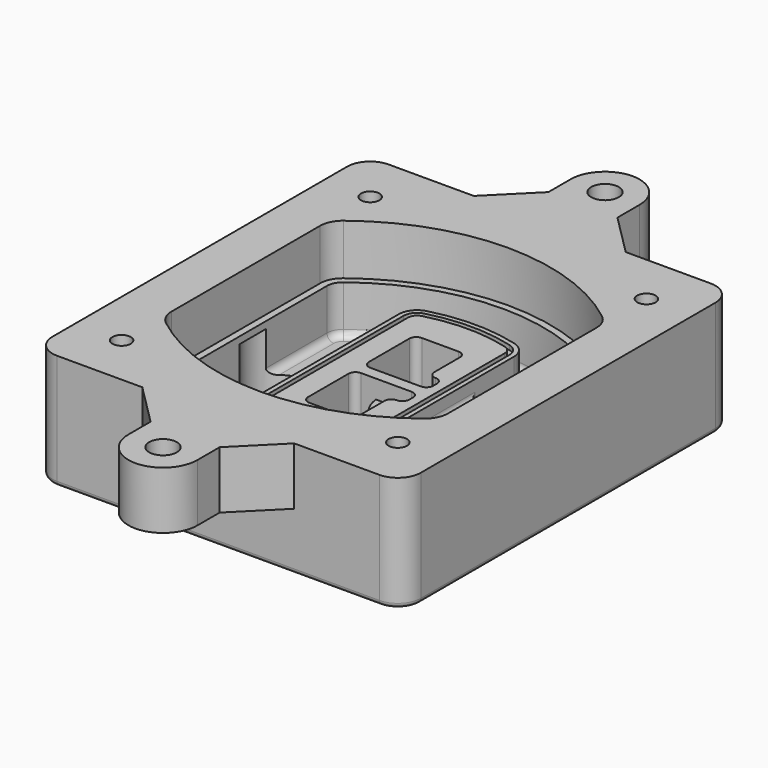
from build123d import *

# Parameters (mm, degrees)
F0_R      = 4
F1_DEPTH  = 25
F2_DEPTH  = 3
F3_DEPTH  = 18
F5_DEPTH  = 21
F6_DEPTH  = 2
F8_DEPTH  = 20
F9_DEPTH  = 16
F10_DEPTH = 25
F7_R      = 6
F7_R_2    = 4
F11_DEPTH = 6
F13_DEPTH = 9
F14_R     = 3
F15_R     = 2
F16_R     = 4
F16_R_2   = 6
F17_DEPTH = 25


with BuildPart() as f1:
    # F0 (on Top) → F1 (new body)
    with BuildSketch(Plane.XY):
        with BuildLine():
            ThreePointArc((-80, -80), (-77.0710678119, -87.0710678119), (-70, -90))
            Line((-70, -90), (70, -90))
            ThreePointArc((70, -90), (77.0710678119, -87.0710678119), (80, -80))
            Line((80, -80), (80, 80))
            ThreePointArc((80, 80), (77.0710678119, 87.0710678119), (70, 90))
            Line((70, 90), (-70, 90))
            ThreePointArc((-70, 90), (-77.0710678119, 87.0710678119), (-80, 80))
            Line((-80, 80), (-80, -80))
        make_face()
        with Locations((-60, -67.5)):
            Circle(F0_R, mode=Mode.SUBTRACT)
        with Locations((60, -67.5)):
            Circle(F0_R, mode=Mode.SUBTRACT)
        with Locations((-60, 67.5)):
            Circle(F0_R, mode=Mode.SUBTRACT)
        with BuildLine():
            ThreePointArc((-64, 40.2934422872), (-62.5820384798, 46.4328484224), (-58.6153846154, 51.3286200352))
            ThreePointArc((-58.6153846154, 51.3286200352), (0, 71.5), (58.6153846154, 51.3286200352))
            ThreePointArc((58.6153846154, 51.3286200352), (62.5820384798, 46.4328484224), (64, 40.2934422872))
            Line((64, 40.2934422872), (64, -40.2934422872))
            ThreePointArc((64, -40.2934422872), (62.5820384798, -46.4328484224), (58.6153846154, -51.3286200352))
            ThreePointArc((58.6153846154, -51.3286200352), (0, -71.5), (-58.6153846154, -51.3286200352))
            ThreePointArc((-58.6153846154, -51.3286200352), (-62.5820384798, -46.4328484224), (-64, -40.2934422872))
            Line((-64, -40.2934422872), (-64, 40.2934422872))
        make_face(mode=Mode.SUBTRACT)
        with Locations((60, 67.5)):
            Circle(F0_R, mode=Mode.SUBTRACT)
        with BuildLine():
            ThreePointArc((58.6153846154, 51.3286200352), (0, 71.5), (-58.6153846154, 51.3286200352))
            ThreePointArc((-58.6153846154, 51.3286200352), (-62.5820384798, 46.4328484224), (-64, 40.2934422872))
            Line((-64, 40.2934422872), (-64, -40.2934422872))
            ThreePointArc((-64, -40.2934422872), (-62.5820384798, -46.4328484224), (-58.6153846154, -51.3286200352))
            ThreePointArc((-58.6153846154, -51.3286200352), (0, -71.5), (58.6153846154, -51.3286200352))
            ThreePointArc((58.6153846154, -51.3286200352), (62.5820384798, -46.4328484224), (64, -40.2934422872))
            Line((64, -40.2934422872), (64, 40.2934422872))
            ThreePointArc((64, 40.2934422872), (62.5820384798, 46.4328484224), (58.6153846154, 51.3286200352))
        make_face()
        with BuildLine():
            Line((-60, -40.2934422872), (-60, 40.2934422872))
            ThreePointArc((-60, 40.2934422872), (-58.9871703427, 44.6787323838), (-56.1538461538, 48.1757121072))
            ThreePointArc((-56.1538461538, 48.1757121072), (0, 67.5), (56.1538461538, 48.1757121072))
            ThreePointArc((56.1538461538, 48.1757121072), (58.9871703427, 44.6787323838), (60, 40.2934422872))
            Line((60, 40.2934422872), (60, -40.2934422872))
            ThreePointArc((60, -40.2934422872), (58.9871703427, -44.6787323838), (56.1538461538, -48.1757121072))
            ThreePointArc((56.1538461538, -48.1757121072), (0, -67.5), (-56.1538461538, -48.1757121072))
            ThreePointArc((-56.1538461538, -48.1757121072), (-58.9871703427, -44.6787323838), (-60, -40.2934422872))
        make_face(mode=Mode.SUBTRACT)
        with BuildLine():
            ThreePointArc((-56.1538461538, 48.1757121072), (-58.9871703427, 44.6787323838), (-60, 40.2934422872))
            Line((-60, 40.2934422872), (-60, -40.2934422872))
            ThreePointArc((-60, -40.2934422872), (-58.9871703427, -44.6787323838), (-56.1538461538, -48.1757121072))
            ThreePointArc((-56.1538461538, -48.1757121072), (0, -67.5), (56.1538461538, -48.1757121072))
            ThreePointArc((56.1538461538, -48.1757121072), (58.9871703427, -44.6787323838), (60, -40.2934422872))
            Line((60, -40.2934422872), (60, 40.2934422872))
            ThreePointArc((60, 40.2934422872), (58.9871703427, 44.6787323838), (56.1538461538, 48.1757121072))
            ThreePointArc((56.1538461538, 48.1757121072), (0, 67.5), (-56.1538461538, 48.1757121072))
        make_face()
        with BuildLine():
            ThreePointArc((54.3076923077, 45.8110311612), (56.2910192399, 43.3631453548), (57, 40.2934422872))
            Line((57, 40.2934422872), (57, -40.2934422872))
            ThreePointArc((57, -40.2934422872), (56.2910192399, -43.3631453548), (54.3076923077, -45.8110311612))
            ThreePointArc((54.3076923077, -45.8110311612), (0, -64.5), (-54.3076923077, -45.8110311612))
            ThreePointArc((-54.3076923077, -45.8110311612), (-56.2910192399, -43.3631453548), (-57, -40.2934422872))
            Line((-57, -40.2934422872), (-57, 40.2934422872))
            ThreePointArc((-57, 40.2934422872), (-56.2910192399, 43.3631453548), (-54.3076923077, 45.8110311612))
            ThreePointArc((-54.3076923077, 45.8110311612), (0, 64.5), (54.3076923077, 45.8110311612))
        make_face(mode=Mode.SUBTRACT)
        with BuildLine():
            Line((57, -40.2934422872), (57, 40.2934422872))
            ThreePointArc((57, 40.2934422872), (56.2910192399, 43.3631453548), (54.3076923077, 45.8110311612))
            ThreePointArc((54.3076923077, 45.8110311612), (0, 64.5), (-54.3076923077, 45.8110311612))
            ThreePointArc((-54.3076923077, 45.8110311612), (-56.2910192399, 43.3631453548), (-57, 40.2934422872))
            Line((-57, 40.2934422872), (-57, -40.2934422872))
            ThreePointArc((-57, -40.2934422872), (-56.2910192399, -43.3631453548), (-54.3076923077, -45.8110311612))
            ThreePointArc((-54.3076923077, -45.8110311612), (0, -64.5), (54.3076923077, -45.8110311612))
            ThreePointArc((54.3076923077, -45.8110311612), (56.2910192399, -43.3631453548), (57, -40.2934422872))
        make_face()
    extrude(amount=-F1_DEPTH)

    # F0 (on Top) → F2 (join)
    with BuildSketch(Plane.XY):
        with BuildLine():
            ThreePointArc((-56.1538461538, 48.1757121072), (-58.9871703427, 44.6787323838), (-60, 40.2934422872))
            Line((-60, 40.2934422872), (-60, -40.2934422872))
            ThreePointArc((-60, -40.2934422872), (-58.9871703427, -44.6787323838), (-56.1538461538, -48.1757121072))
            ThreePointArc((-56.1538461538, -48.1757121072), (0, -67.5), (56.1538461538, -48.1757121072))
            ThreePointArc((56.1538461538, -48.1757121072), (58.9871703427, -44.6787323838), (60, -40.2934422872))
            Line((60, -40.2934422872), (60, 40.2934422872))
            ThreePointArc((60, 40.2934422872), (58.9871703427, 44.6787323838), (56.1538461538, 48.1757121072))
            ThreePointArc((56.1538461538, 48.1757121072), (0, 67.5), (-56.1538461538, 48.1757121072))
        make_face()
        with BuildLine():
            ThreePointArc((54.3076923077, 45.8110311612), (56.2910192399, 43.3631453548), (57, 40.2934422872))
            Line((57, 40.2934422872), (57, -40.2934422872))
            ThreePointArc((57, -40.2934422872), (56.2910192399, -43.3631453548), (54.3076923077, -45.8110311612))
            ThreePointArc((54.3076923077, -45.8110311612), (0, -64.5), (-54.3076923077, -45.8110311612))
            ThreePointArc((-54.3076923077, -45.8110311612), (-56.2910192399, -43.3631453548), (-57, -40.2934422872))
            Line((-57, -40.2934422872), (-57, 40.2934422872))
            ThreePointArc((-57, 40.2934422872), (-56.2910192399, 43.3631453548), (-54.3076923077, 45.8110311612))
            ThreePointArc((-54.3076923077, 45.8110311612), (0, 64.5), (54.3076923077, 45.8110311612))
        make_face(mode=Mode.SUBTRACT)
    extrude(amount=F2_DEPTH)

    # F0 (on Top) → F3 (cut)
    with BuildSketch(Plane.XY):
        with BuildLine():
            Line((57, -40.2934422872), (57, 40.2934422872))
            ThreePointArc((57, 40.2934422872), (56.2910192399, 43.3631453548), (54.3076923077, 45.8110311612))
            ThreePointArc((54.3076923077, 45.8110311612), (0, 64.5), (-54.3076923077, 45.8110311612))
            ThreePointArc((-54.3076923077, 45.8110311612), (-56.2910192399, 43.3631453548), (-57, 40.2934422872))
            Line((-57, 40.2934422872), (-57, -40.2934422872))
            ThreePointArc((-57, -40.2934422872), (-56.2910192399, -43.3631453548), (-54.3076923077, -45.8110311612))
            ThreePointArc((-54.3076923077, -45.8110311612), (0, -64.5), (54.3076923077, -45.8110311612))
            ThreePointArc((54.3076923077, -45.8110311612), (56.2910192399, -43.3631453548), (57, -40.2934422872))
        make_face()
    extrude(amount=-F3_DEPTH, mode=Mode.SUBTRACT)

    # F4 (on face) → F5 (join, through all)
    with BuildSketch(Plane.XY.offset(3)):
        with BuildLine():
            ThreePointArc((-25, -39.2465276821), (-23.3511545998, -44.1109737193), (-19.0842911877, -46.9702398883))
            ThreePointArc((-19.0842911877, -46.9702398883), (0, -49.5), (19.0842911877, -46.9702398883))
            ThreePointArc((19.0842911877, -46.9702398883), (23.3511545998, -44.1109737193), (25, -39.2465276821))
            Line((25, -39.2465276821), (25, 39.2465276821))
            ThreePointArc((25, 39.2465276821), (23.3511545998, 44.1109737193), (19.0842911877, 46.9702398883))
            ThreePointArc((19.0842911877, 46.9702398883), (0, 49.5), (-19.0842911877, 46.9702398883))
            ThreePointArc((-19.0842911877, 46.9702398883), (-23.3511545998, 44.1109737193), (-25, 39.2465276821))
            Line((-25, 39.2465276821), (-25, -39.2465276821))
        make_face()
        with BuildLine():
            ThreePointArc((18.5632183908, 45.0393118368), (21.7633659499, 42.89486221), (23, 39.2465276821))
            Line((23, 39.2465276821), (23, -39.2465276821))
            ThreePointArc((23, -39.2465276821), (21.7633659499, -42.89486221), (18.5632183908, -45.0393118368))
            ThreePointArc((18.5632183908, -45.0393118368), (0, -47.5), (-18.5632183908, -45.0393118368))
            ThreePointArc((-18.5632183908, -45.0393118368), (-21.7633659499, -42.89486221), (-23, -39.2465276821))
            Line((-23, -39.2465276821), (-23, 39.2465276821))
            ThreePointArc((-23, 39.2465276821), (-21.7633659499, 42.89486221), (-18.5632183908, 45.0393118368))
            ThreePointArc((-18.5632183908, 45.0393118368), (0, 47.5), (18.5632183908, 45.0393118368))
        make_face(mode=Mode.SUBTRACT)
        with BuildLine():
            Line((23, -39.2465276821), (23, 39.2465276821))
            ThreePointArc((23, 39.2465276821), (21.7633659499, 42.89486221), (18.5632183908, 45.0393118368))
            ThreePointArc((18.5632183908, 45.0393118368), (0, 47.5), (-18.5632183908, 45.0393118368))
            ThreePointArc((-18.5632183908, 45.0393118368), (-21.7633659499, 42.89486221), (-23, 39.2465276821))
            Line((-23, 39.2465276821), (-23, -39.2465276821))
            ThreePointArc((-23, -39.2465276821), (-21.7633659499, -42.89486221), (-18.5632183908, -45.0393118368))
            ThreePointArc((-18.5632183908, -45.0393118368), (0, -47.5), (18.5632183908, -45.0393118368))
            ThreePointArc((18.5632183908, -45.0393118368), (21.7633659499, -42.89486221), (23, -39.2465276821))
        make_face()
        with BuildLine():
            ThreePointArc((18.0421455939, 43.1083837852), (20.1755772999, 41.6787507007), (21, 39.2465276821))
            Line((21, 39.2465276821), (21, -39.2465276821))
            ThreePointArc((21, -39.2465276821), (20.1755772999, -41.6787507007), (18.0421455939, -43.1083837852))
            ThreePointArc((18.0421455939, -43.1083837852), (0, -45.5), (-18.0421455939, -43.1083837852))
            ThreePointArc((-18.0421455939, -43.1083837852), (-20.1755772999, -41.6787507007), (-21, -39.2465276821))
            Line((-21, -39.2465276821), (-21, 39.2465276821))
            ThreePointArc((-21, 39.2465276821), (-20.1755772999, 41.6787507007), (-18.0421455939, 43.1083837852))
            ThreePointArc((-18.0421455939, 43.1083837852), (0, 45.5), (18.0421455939, 43.1083837852))
        make_face(mode=Mode.SUBTRACT)
        with BuildLine():
            Line((21, -39.2465276821), (21, 39.2465276821))
            ThreePointArc((21, 39.2465276821), (20.1755772999, 41.6787507007), (18.0421455939, 43.1083837852))
            ThreePointArc((18.0421455939, 43.1083837852), (0, 45.5), (-18.0421455939, 43.1083837852))
            ThreePointArc((-18.0421455939, 43.1083837852), (-20.1755772999, 41.6787507007), (-21, 39.2465276821))
            Line((-21, 39.2465276821), (-21, -39.2465276821))
            ThreePointArc((-21, -39.2465276821), (-20.1755772999, -41.6787507007), (-18.0421455939, -43.1083837852))
            ThreePointArc((-18.0421455939, -43.1083837852), (0, -45.5), (18.0421455939, -43.1083837852))
            ThreePointArc((18.0421455939, -43.1083837852), (20.1755772999, -41.6787507007), (21, -39.2465276821))
        make_face()
        with BuildLine():
            Line((-8, -2.5), (14, -2.5))
            ThreePointArc((14, -2.5), (16.1213203436, -3.3786796564), (17, -5.5))
            Line((17, -5.5), (17, -7.5))
            ThreePointArc((17, -7.5), (16.1213203436, -9.6213203436), (14, -10.5))
            ThreePointArc((14, -10.5), (11.8786796564, -11.3786796564), (11, -13.5))
            Line((11, -13.5), (11, -27.5))
            ThreePointArc((11, -27.5), (10.1213203436, -29.6213203436), (8, -30.5))
            Line((8, -30.5), (-8, -30.5))
            ThreePointArc((-8, -30.5), (-10.1213203436, -29.6213203436), (-11, -27.5))
            Line((-11, -27.5), (-11, -5.5))
            ThreePointArc((-11, -5.5), (-10.1213203436, -3.3786796564), (-8, -2.5))
        make_face(mode=Mode.SUBTRACT)
        with BuildLine():
            ThreePointArc((-8, 2.5), (-10.1213203436, 3.3786796564), (-11, 5.5))
            Line((-11, 5.5), (-11, 27.5))
            ThreePointArc((-11, 27.5), (-10.1213203436, 29.6213203436), (-8, 30.5))
            Line((-8, 30.5), (8, 30.5))
            ThreePointArc((8, 30.5), (10.1213203436, 29.6213203436), (11, 27.5))
            Line((11, 27.5), (11, 13.5))
            ThreePointArc((11, 13.5), (11.8786796564, 11.3786796564), (14, 10.5))
            ThreePointArc((14, 10.5), (16.1213203436, 9.6213203436), (17, 7.5))
            Line((17, 7.5), (17, 5.5))
            ThreePointArc((17, 5.5), (16.1213203436, 3.3786796564), (14, 2.5))
            Line((14, 2.5), (-8, 2.5))
        make_face(mode=Mode.SUBTRACT)
    extrude(amount=-F5_DEPTH)

    # F4 (on face) → F6 (cut)
    with BuildSketch(Plane.XY.offset(3)):
        with BuildLine():
            Line((23, -39.2465276821), (23, 39.2465276821))
            ThreePointArc((23, 39.2465276821), (21.7633659499, 42.89486221), (18.5632183908, 45.0393118368))
            ThreePointArc((18.5632183908, 45.0393118368), (0, 47.5), (-18.5632183908, 45.0393118368))
            ThreePointArc((-18.5632183908, 45.0393118368), (-21.7633659499, 42.89486221), (-23, 39.2465276821))
            Line((-23, 39.2465276821), (-23, -39.2465276821))
            ThreePointArc((-23, -39.2465276821), (-21.7633659499, -42.89486221), (-18.5632183908, -45.0393118368))
            ThreePointArc((-18.5632183908, -45.0393118368), (0, -47.5), (18.5632183908, -45.0393118368))
            ThreePointArc((18.5632183908, -45.0393118368), (21.7633659499, -42.89486221), (23, -39.2465276821))
        make_face()
        with BuildLine():
            ThreePointArc((18.0421455939, 43.1083837852), (20.1755772999, 41.6787507007), (21, 39.2465276821))
            Line((21, 39.2465276821), (21, -39.2465276821))
            ThreePointArc((21, -39.2465276821), (20.1755772999, -41.6787507007), (18.0421455939, -43.1083837852))
            ThreePointArc((18.0421455939, -43.1083837852), (0, -45.5), (-18.0421455939, -43.1083837852))
            ThreePointArc((-18.0421455939, -43.1083837852), (-20.1755772999, -41.6787507007), (-21, -39.2465276821))
            Line((-21, -39.2465276821), (-21, 39.2465276821))
            ThreePointArc((-21, 39.2465276821), (-20.1755772999, 41.6787507007), (-18.0421455939, 43.1083837852))
            ThreePointArc((-18.0421455939, 43.1083837852), (0, 45.5), (18.0421455939, 43.1083837852))
        make_face(mode=Mode.SUBTRACT)
    extrude(amount=-F6_DEPTH, mode=Mode.SUBTRACT)

    # F7 (on face) → F8 (join)
    with BuildSketch(Plane(origin=(0, 0, -25), x_dir=(1, 0, 0), z_dir=(0, 0, -1))):
        with BuildLine():
            ThreePointArc((3.28842436, 0), (16.7567035675, 13.4682792075), (30.224982775, 0))
            Line((30.224982775, 0), (35.224982775, 0))
            ThreePointArc((35.224982775, 0), (16.7567035675, 18.4682792075), (-1.71157564, 0))
            Line((-1.71157564, 0), (3.28842436, 0))
        make_face()
        with BuildLine():
            Line((3.28842436, 0), (30.224982775, 0))
            ThreePointArc((30.224982775, 0), (16.7567035675, 13.4682792075), (3.28842436, 0))
        make_face()
        with BuildLine():
            ThreePointArc((3.28842436, 0), (16.7567035675, -13.4682792075), (30.224982775, 0))
            Line((30.224982775, 0), (3.28842436, 0))
        make_face()
        with BuildLine():
            Line((35.224982775, 0), (30.224982775, 0))
            ThreePointArc((30.224982775, 0), (16.7567035675, -13.4682792075), (3.28842436, 0))
            Line((3.28842436, 0), (-1.71157564, 0))
            ThreePointArc((-1.71157564, 0), (16.7567035675, -18.4682792075), (35.224982775, 0))
        make_face()
    extrude(amount=-F8_DEPTH)

    # F7 (on face) → F9 (cut)
    with BuildSketch(Plane(origin=(0, 0, -25), x_dir=(1, 0, 0), z_dir=(0, 0, -1))):
        with BuildLine():
            Line((3.28842436, 0), (30.224982775, 0))
            ThreePointArc((30.224982775, 0), (16.7567035675, 13.4682792075), (3.28842436, 0))
        make_face()
        with BuildLine():
            ThreePointArc((3.28842436, 0), (16.7567035675, -13.4682792075), (30.224982775, 0))
            Line((30.224982775, 0), (3.28842436, 0))
        make_face()
    extrude(amount=-F9_DEPTH, mode=Mode.SUBTRACT)

    # F7 (on face) → F10 (cut)
    with BuildSketch(Plane(origin=(0, 0, -25), x_dir=(1, 0, 0), z_dir=(0, 0, -1))):
        with BuildLine():
            Line((-59.0318229325, 0), (-32.0952645175, 0))
            ThreePointArc((-32.0952645175, 0), (-45.563543725, 13.4682792075), (-59.0318229325, 0))
        make_face()
        with BuildLine():
            ThreePointArc((-59.0318229325, 0), (-45.563543725, -13.4682792075), (-32.0952645175, 0))
            Line((-32.0952645175, 0), (-59.0318229325, 0))
        make_face()
    extrude(amount=-F10_DEPTH, mode=Mode.SUBTRACT)

    # F7 (on face) → F11 (cut)
    with BuildSketch(Plane(origin=(0, 0, -25), x_dir=(1, 0, 0), z_dir=(0, 0, -1))):
        with Locations((60, -67.5)):
            Circle(F7_R)
        with Locations((60, -67.5)):
            Circle(F7_R_2, mode=Mode.SUBTRACT)
        with Locations((60, -67.5)):
            Circle(F7_R)
        with Locations((60, -67.5)):
            Circle(F7_R_2, mode=Mode.SUBTRACT)
        with Locations((-60, -67.5)):
            Circle(F7_R)
        with Locations((-60, -67.5)):
            Circle(F7_R_2, mode=Mode.SUBTRACT)
        with Locations((-60, -67.5)):
            Circle(F7_R)
        with Locations((-60, -67.5)):
            Circle(F7_R_2, mode=Mode.SUBTRACT)
        with Locations((-60, 67.5)):
            Circle(F7_R)
        with Locations((-60, 67.5)):
            Circle(F7_R_2, mode=Mode.SUBTRACT)
        with Locations((-60, 67.5)):
            Circle(F7_R)
        with Locations((-60, 67.5)):
            Circle(F7_R_2, mode=Mode.SUBTRACT)
        with Locations((60, 67.5)):
            Circle(F7_R)
        with Locations((60, 67.5)):
            Circle(F7_R_2, mode=Mode.SUBTRACT)
        with Locations((60, 67.5)):
            Circle(F7_R)
        with Locations((60, 67.5)):
            Circle(F7_R_2, mode=Mode.SUBTRACT)
    extrude(amount=-F11_DEPTH, mode=Mode.SUBTRACT)

    # F12 (on face) → F13 (cut, through all)
    with BuildSketch(Plane(origin=(0, 0, -9), x_dir=(1, 0, 0), z_dir=(0, 0, -1))):
        with BuildLine():
            Line((11, 13.5), (11, 17.5481537753))
            ThreePointArc((11, 17.5481537753), (2.5696536419, 11.8239143813), (-1.5415842455, 2.5))
            Line((-1.5415842455, 2.5), (3.5224848595, 2.5))
            ThreePointArc((3.5224848595, 2.5), (6.1857188154, 8.3455872281), (11.2536447004, 12.2927168648))
            ThreePointArc((11.2536447004, 12.2927168648), (11.0640958889, 12.8831798879), (11, 13.5))
        make_face()
        with BuildLine():
            ThreePointArc((11.2536447004, -12.2927168648), (6.1857188154, -8.3455872281), (3.5224848595, -2.5))
            Line((3.5224848595, -2.5), (-1.5415842455, -2.5))
            ThreePointArc((-1.5415842455, -2.5), (2.5696536419, -11.8239143813), (11, -17.5481537753))
            Line((11, -17.5481537753), (11, -13.5))
            ThreePointArc((11, -13.5), (11.0640958889, -12.8831798879), (11.2536447004, -12.2927168648))
        make_face()
        with BuildLine():
            ThreePointArc((11.2536447004, 12.2927168648), (6.1857188154, 8.3455872281), (3.5224848595, 2.5))
            Line((3.5224848595, 2.5), (14, 2.5))
            ThreePointArc((14, 2.5), (16.1213203436, 3.3786796564), (17, 5.5))
            Line((17, 5.5), (17, 7.5))
            ThreePointArc((17, 7.5), (16.1213203436, 9.6213203436), (14, 10.5))
            ThreePointArc((14, 10.5), (12.3601599782, 10.9878446101), (11.2536447004, 12.2927168648))
        make_face()
        with BuildLine():
            Line((14, -2.5), (3.5224848595, -2.5))
            ThreePointArc((3.5224848595, -2.5), (6.1857188154, -8.3455872281), (11.2536447004, -12.2927168648))
            ThreePointArc((11.2536447004, -12.2927168648), (12.3601599782, -10.9878446101), (14, -10.5))
            ThreePointArc((14, -10.5), (16.1213203436, -9.6213203436), (17, -7.5))
            Line((17, -7.5), (17, -5.5))
            ThreePointArc((17, -5.5), (16.1213203436, -3.3786796564), (14, -2.5))
        make_face()
    extrude(amount=F13_DEPTH, mode=Mode.SUBTRACT)

    # F14
    f14_edges = [f1.edges().sort_by_distance(p)[0] for p in [
        (-57, -23.703476, -18),
        (-57, 23.703476, -18),
        (25, 0, -5),
        (25, 16.526506, -11.5),
        (25, -16.526506, -11.5),
        (25, -27.886517, -18),
        (35.224983, 0, -18),
    ]]
    fillet(f14_edges, radius=F14_R)

    # F15
    f15_edges = [f1.edges().sort_by_distance(p)[0] for p in [
        (0, -90, -25),
    ]]
    fillet(f15_edges, radius=F15_R)

    # F16 (on face) → F17 (join)
    with BuildSketch(Plane.XY):
        with BuildLine():
            Line((-80, 80), (-80, -80))
            ThreePointArc((-80, -80), (-77.0710678119, -87.0710678119), (-70, -90))
            Line((-70, -90), (-33, -90))
            Line((-33, -90), (33, -90))
            Line((33, -90), (70, -90))
            ThreePointArc((70, -90), (77.0710678119, -87.0710678119), (80, -80))
            Line((80, -80), (80, 80))
            ThreePointArc((80, 80), (77.0710678119, 87.0710678119), (70, 90))
            Line((70, 90), (33, 90))
            Line((33, 90), (-33, 90))
            Line((-33, 90), (-70, 90))
            ThreePointArc((-70, 90), (-77.0710678119, 87.0710678119), (-80, 80))
        make_face()
        with Locations((-60, -67.5)):
            Circle(F16_R, mode=Mode.SUBTRACT)
        with Locations((60, -67.5)):
            Circle(F16_R, mode=Mode.SUBTRACT)
        with Locations((-60, 67.5)):
            Circle(F16_R, mode=Mode.SUBTRACT)
        with BuildLine():
            ThreePointArc((56.1538461538, -48.1757121072), (0, -67.5), (-56.1538461538, -48.1757121072))
            ThreePointArc((-56.1538461538, -48.1757121072), (-58.9871703427, -44.6787323838), (-60, -40.2934422872))
            Line((-60, -40.2934422872), (-60, 40.2934422872))
            ThreePointArc((-60, 40.2934422872), (-58.9871703427, 44.6787323838), (-56.1538461538, 48.1757121072))
            ThreePointArc((-56.1538461538, 48.1757121072), (0, 67.5), (56.1538461538, 48.1757121072))
            ThreePointArc((56.1538461538, 48.1757121072), (58.9871703427, 44.6787323838), (60, 40.2934422872))
            Line((60, 40.2934422872), (60, -40.2934422872))
            ThreePointArc((60, -40.2934422872), (58.9871703427, -44.6787323838), (56.1538461538, -48.1757121072))
        make_face(mode=Mode.SUBTRACT)
        with Locations((60, 67.5)):
            Circle(F16_R, mode=Mode.SUBTRACT)
        with BuildLine():
            Line((33, -90), (-33, -90))
            Line((-33, -90), (-15, -108))
            Line((-15, -108), (-15, -120))
            ThreePointArc((-15, -120), (0, -135), (15, -120))
            Line((15, -120), (15, -108))
            Line((15, -108), (33, -90))
        make_face()
        with Locations((0, -120)):
            Circle(F16_R_2, mode=Mode.SUBTRACT)
        with BuildLine():
            Line((-15, 108), (-33, 90))
            Line((-33, 90), (33, 90))
            Line((33, 90), (15, 108))
            Line((15, 108), (15, 120))
            ThreePointArc((15, 120), (0, 135), (-15, 120))
            Line((-15, 120), (-15, 108))
        make_face()
        with Locations((0, 120)):
            Circle(F16_R_2, mode=Mode.SUBTRACT)
    extrude(amount=F17_DEPTH)


solid = f1.part
